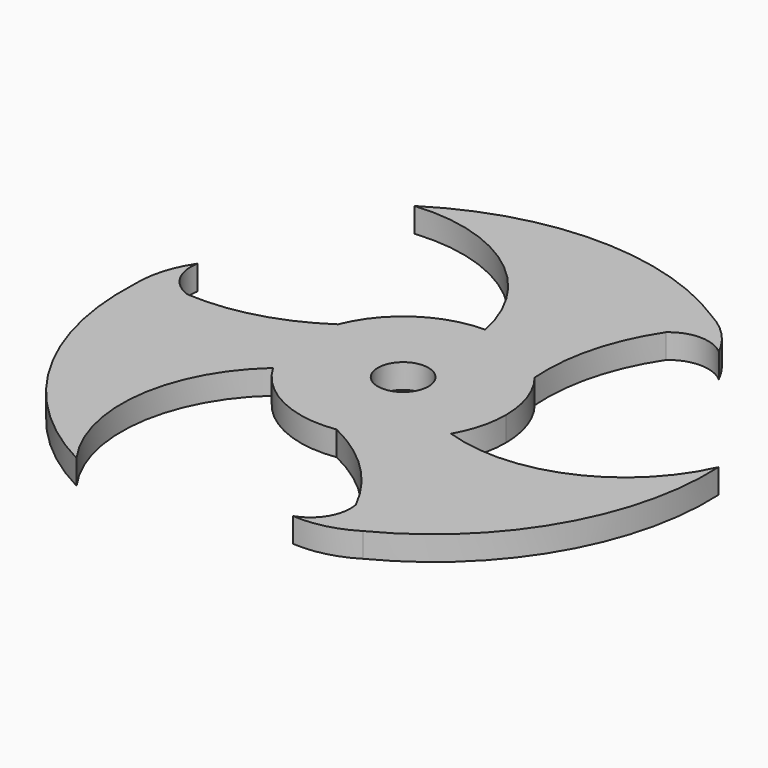
from build123d import *

# Parameters (mm, degrees)
F0_R     = 2.465
F1_DEPTH = 2.38


with BuildPart() as f1:
    # F0 (on Top) → F1 (new body)
    with BuildSketch(Plane.XY):
        with BuildLine():
            ThreePointArc((0, 10), (4.359747, 8.999589), (7.847187, 6.198521))
            ThreePointArc((7.847187, 6.198521), (8.410225, 12.486219), (10.984446, 18.25038))
            ThreePointArc((10.984446, 18.25038), (13.553523, 19.219431), (16.124126, 18.254435))
            ThreePointArc((16.124126, 18.254435), (14.432203, 20.69641), (12.065989, 22.49276))
            ThreePointArc((12.065989, 22.49276), (-2.422788, 26.778203), (-16.925003, 22.538461))
            ThreePointArc((-16.925003, 22.538461), (-6.056439, 19.517047), (0, 10))
        make_face()
        with BuildLine():
            ThreePointArc((-8.660254, -5), (-9.973746, -0.724143), (-9.29167, 3.696602))
            ThreePointArc((-9.29167, 3.696602), (-15.018496, 1.040359), (-21.297516, 0.38762))
            ThreePointArc((-21.297516, 0.38762), (-23.421277, 2.12798), (-23.870867, 4.836685))
            ThreePointArc((-23.870867, 4.836685), (-25.139718, 2.15045), (-25.512296, -0.796927))
            ThreePointArc((-25.512296, -0.796927), (-21.97921, -15.487297), (-11.056378, -25.926713))
            ThreePointArc((-11.056378, -25.926713), (-13.874039, -15.003553), (-8.660254, -5))
        make_face()
        with BuildLine():
            ThreePointArc((27.981381, 3.388252), (19.930478, -4.513494), (8.660254, -5))
            ThreePointArc((8.660254, -5), (5.613999, -8.275446), (1.444483, -9.895123))
            ThreePointArc((1.444483, -9.895123), (6.60827, -13.526578), (10.313069, -18.638))
            ThreePointArc((10.313069, -18.638), (9.867754, -21.347411), (7.746741, -23.09112))
            ThreePointArc((7.746741, -23.09112), (10.707515, -22.84686), (13.446307, -21.695833))
            ThreePointArc((13.446307, -21.695833), (24.401998, -11.290906), (27.981381, 3.388252))
        make_face()
        with BuildLine():
            ThreePointArc((8.660254, -5), (9.659258, -2.58819), (10, 0))
            ThreePointArc((10, 0), (9.446477, 3.280864), (7.847187, 6.198521))
            ThreePointArc((7.847187, 6.198521), (4.359747, 8.999589), (0, 10))
            ThreePointArc((0, 10), (-5.613999, 8.275446), (-9.29167, 3.696602))
            ThreePointArc((-9.29167, 3.696602), (-9.973746, -0.724143), (-8.660254, -5))
            ThreePointArc((-8.660254, -5), (-4.359747, -8.999589), (1.444483, -9.895123))
            ThreePointArc((1.444483, -9.895123), (5.613999, -8.275446), (8.660254, -5))
        make_face()
        Circle(F0_R, mode=Mode.SUBTRACT)
    extrude(amount=F1_DEPTH)


solid = f1.part
